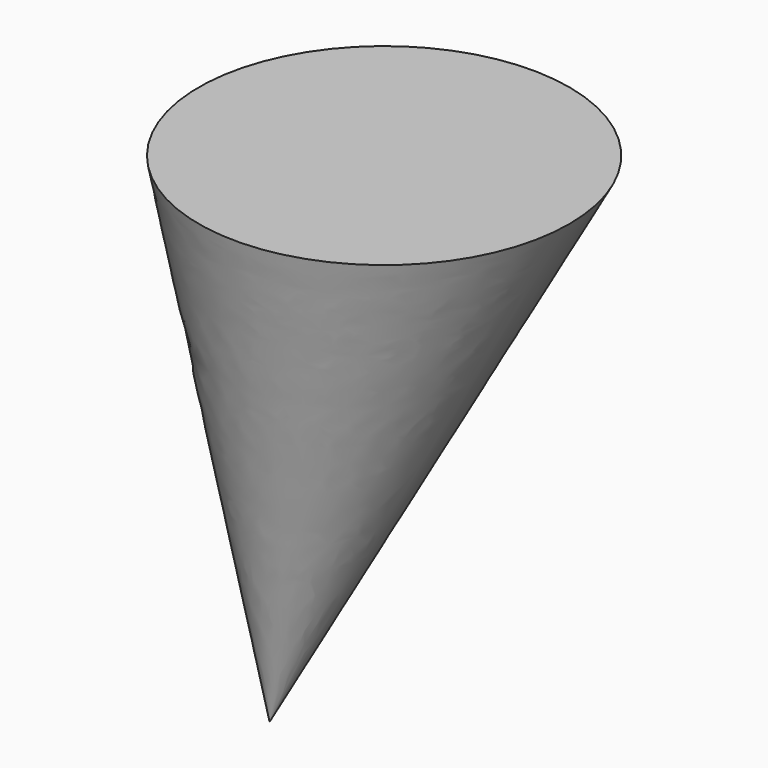
from build123d import *

# Parameters (mm, degrees)
F2_R = 16.098132


with BuildPart() as f3:
    # F2 (on offset) → F3 section 0
    with BuildSketch(Plane.XY.offset(42.672), mode=Mode.PRIVATE) as f3_s0:
        with Locations((-16.080536, 33.345014)):
            Circle(F2_R)
    loft([f3_s0.sketch, Vertex(-21.361012, 27.500493, 0)])


solid = f3.part
